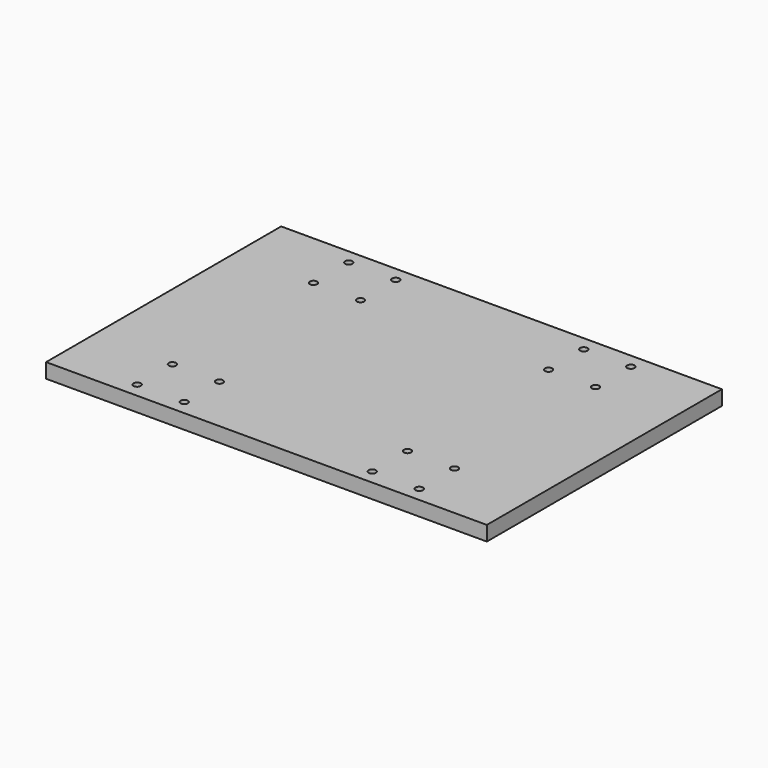
from build123d import *

# Parameters (mm, degrees)
F0_W     = 300
F0_H     = 200
F0_R     = 2.5
F1_DEPTH = 10


with BuildPart() as f1:
    # F0 (on Top) → F1 (new body)
    with BuildSketch(Plane.XY):
        Rectangle(F0_W, F0_H)
        with Locations((-96, -90)):
            Circle(F0_R, mode=Mode.SUBTRACT)
        with Locations((-96, -60)):
            Circle(F0_R, mode=Mode.SUBTRACT)
        with Locations((-64, -90)):
            Circle(F0_R, mode=Mode.SUBTRACT)
        with Locations((-64, -60)):
            Circle(F0_R, mode=Mode.SUBTRACT)
        with Locations((64, -90)):
            Circle(F0_R, mode=Mode.SUBTRACT)
        with Locations((64, -60)):
            Circle(F0_R, mode=Mode.SUBTRACT)
        with Locations((96, -90)):
            Circle(F0_R, mode=Mode.SUBTRACT)
        with Locations((96, -60)):
            Circle(F0_R, mode=Mode.SUBTRACT)
        with Locations((-96, 60)):
            Circle(F0_R, mode=Mode.SUBTRACT)
        with Locations((-96, 90)):
            Circle(F0_R, mode=Mode.SUBTRACT)
        with Locations((-64, 60)):
            Circle(F0_R, mode=Mode.SUBTRACT)
        with Locations((-64, 90)):
            Circle(F0_R, mode=Mode.SUBTRACT)
        with Locations((64, 60)):
            Circle(F0_R, mode=Mode.SUBTRACT)
        with Locations((64, 90)):
            Circle(F0_R, mode=Mode.SUBTRACT)
        with Locations((96, 60)):
            Circle(F0_R, mode=Mode.SUBTRACT)
        with Locations((96, 90)):
            Circle(F0_R, mode=Mode.SUBTRACT)
    extrude(amount=F1_DEPTH)


solid = f1.part
